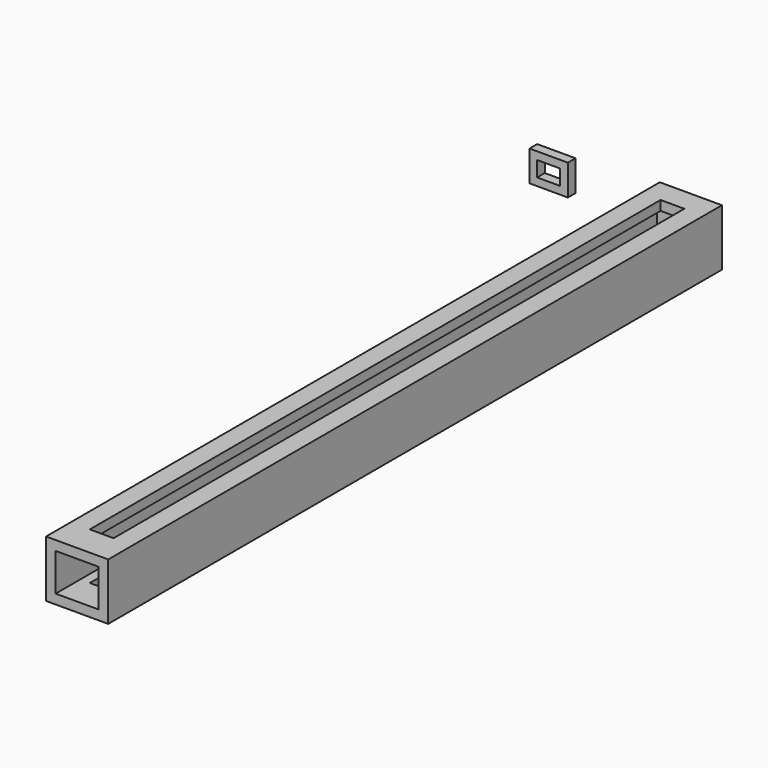
from build123d import *

# Parameters (mm, degrees)
F0_W     = 8.1
F0_H     = 7.4
F0_W_2   = 5.6
F0_H_2   = 4.9
F1_DEPTH = 2
F2_DEPTH = 100
F3_W     = 3.1
F3_H     = 93
F4_DEPTH = 25
F6_W     = 5
F6_H     = 4
F6_W_2   = 3
F6_H_2   = 2
F7_DEPTH = 1.25


with BuildPart() as f1:
    # F0 (on Front) → F1 (new body)
    with BuildSketch(Plane.XZ):
        with Locations((4.05, 3.7)):
            Rectangle(F0_W, F0_H)
        with Locations((4.05, 3.7)):
            Rectangle(F0_W_2, F0_H_2, mode=Mode.SUBTRACT)
        with Locations((4.05, 3.7)):
            Rectangle(F0_W_2, F0_H_2)
    extrude(amount=F1_DEPTH)

    # F0 (on Front) → F2 (join)
    with BuildSketch(Plane.XZ):
        with Locations((4.05, 3.7)):
            Rectangle(F0_W, F0_H)
        with Locations((4.05, 3.7)):
            Rectangle(F0_W_2, F0_H_2, mode=Mode.SUBTRACT)
    extrude(amount=F2_DEPTH)

    # F3 (on face) → F4 (cut)
    with BuildSketch(Plane(origin=(0, 0, 0), x_dir=(1, 0, 0), z_dir=(0, 0, -1))):
        with Locations((4.05, 49.5)):
            Rectangle(F3_W, F3_H)
    extrude(amount=-F4_DEPTH, mode=Mode.SUBTRACT)


with BuildPart() as f7:
    # F6 (on Front) → F7 (new body)
    with BuildSketch(Plane.XZ):
        with Locations((-13.484615, 4.584615)):
            Rectangle(F6_W, F6_H)
        with Locations((-13.484615, 4.584615)):
            Rectangle(F6_W_2, F6_H_2, mode=Mode.SUBTRACT)
    extrude(amount=F7_DEPTH)


solid = Compound([f1.part, f7.part])
